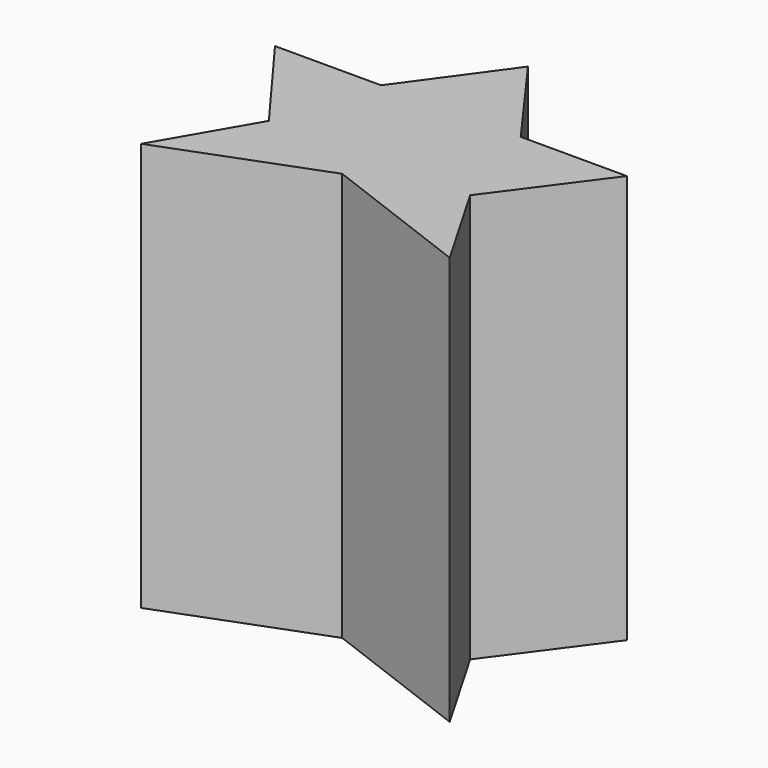
from build123d import *

# Parameters (mm, degrees)
F1_DEPTH = 139.192
F2_R     = 27.771384
F3_DEPTH = 135.89
F5_DEPTH = 120.142


with BuildPart() as f1:
    # F0 (on Top) → F1 (new body)
    with BuildSketch(Plane.XY):
        Polygon((23.781775, 9.586452), (0, 42.401612), (-23.781775, 9.586452), (-59.915323, 9.586452), (-34.290001, -25.072258), (-52.541129, -56.596935), (0, -36.686614), (52.541129, -56.596935), (34.290001, -25.072258), (59.915323, 9.586452), align=None)
    extrude(amount=F1_DEPTH)

    # F2 (on face) → F3 (join)
    with BuildSketch(Plane(origin=(0, 0, 0), x_dir=(1, 0, 0), z_dir=(0, 0, -1))):
        with Locations((0, 6.819746)):
            Circle(F2_R)
    extrude(amount=-F3_DEPTH)

    # F4 (on face) → F5 (join)
    with BuildSketch(Plane(origin=(0, 0, 0), x_dir=(1, 0, 0), z_dir=(0, 0, -1))):
        Polygon((-13.642258, -6.452419), (0, -28.943708), (18.066773, -6.452419), (50.69758, -4.424516), (28.574999, 29.128065), (43.692097, 48.300967), (-4.793226, 31.155968), (-41.664194, 49.407098), (-27.837582, 18.619839), (-49.775805, -6.452419), align=None)
    extrude(amount=-F5_DEPTH)


solid = f1.part
